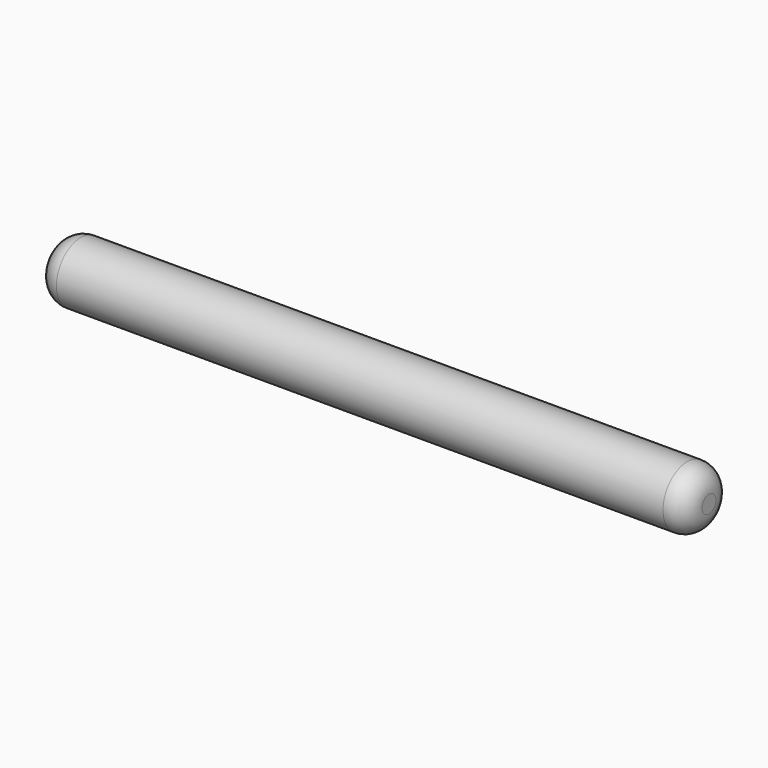
from build123d import *

# Parameters (mm, degrees)
F0_R     = 7
F1_DEPTH = 75
F2_R     = 5


with BuildPart() as f1:
    # F0 (on Right) → F1 (new body, symmetric)
    with BuildSketch(Plane.YZ):
        Circle(F0_R)
    extrude(amount=F1_DEPTH, both=True)

    # F2
    f2_edges = [f1.edges().sort_by_distance(p)[0] for p in [
        (75, -7, 0),
        (-75, -7, 0),
    ]]
    fillet(f2_edges, radius=F2_R)


solid = f1.part
